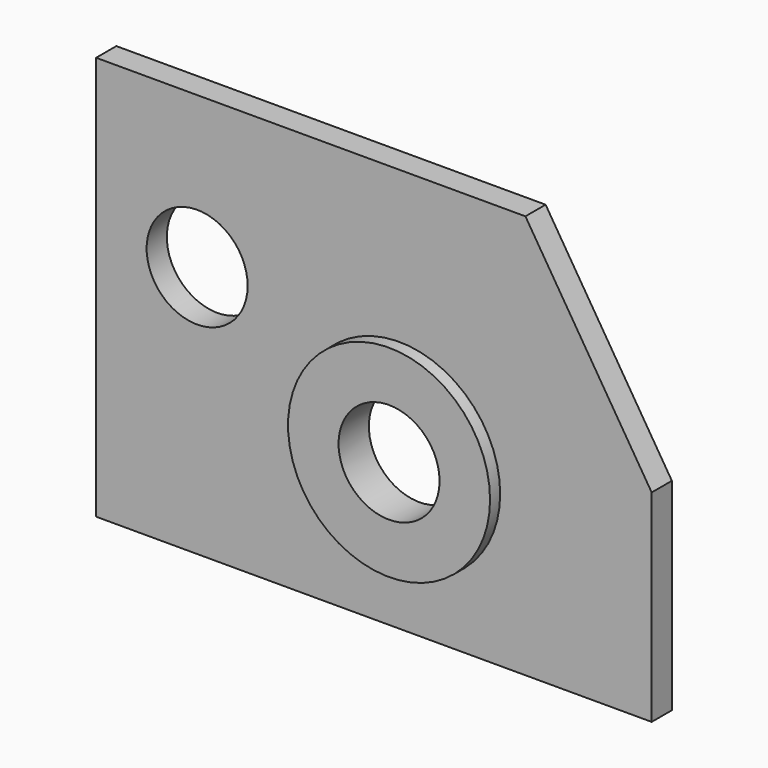
from build123d import *

# Parameters (mm, degrees)
F0_R     = 25.4
F0_R_2   = 12.7
F1_DEPTH = 6.35
F2_DEPTH = 3.175


with BuildPart() as f1:
    # F0 (on Front) → F1 (new body)
    with BuildSketch(Plane.XZ):
        Polygon((0, 38.1), (0, 0), (25.4, 0), (76.2, 0), (139.7, 0), (139.7, 50.8), (107.95, 101.6), (0, 101.6), (0, 63.5), align=None)
        with Locations((76.2, 38.1)):
            Circle(F0_R, mode=Mode.SUBTRACT)
        with Locations((25.4, 63.5)):
            Circle(F0_R_2, mode=Mode.SUBTRACT)
        with Locations((76.2, 38.1)):
            Circle(F0_R)
        with Locations((76.2, 38.1)):
            Circle(F0_R_2, mode=Mode.SUBTRACT)
    extrude(amount=-F1_DEPTH)

    # F0 (on Front) → F2 (join)
    with BuildSketch(Plane.XZ):
        with Locations((76.2, 38.1)):
            Circle(F0_R)
        with Locations((76.2, 38.1)):
            Circle(F0_R_2, mode=Mode.SUBTRACT)
    extrude(amount=F2_DEPTH)


solid = f1.part
